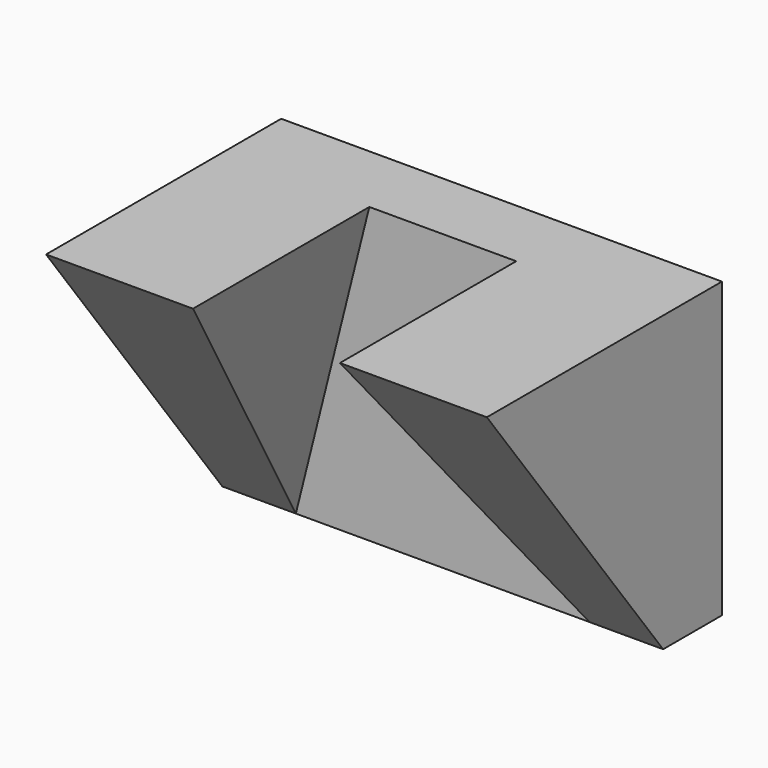
from build123d import *

# Parameters (mm, degrees)
F1_DEPTH  = 10
F2_DEPTH  = 40
F3_DEPTH  = 40
F5_DEPTH  = 25
F7_DEPTH  = 25
F9_DEPTH  = 25
F11_DEPTH = 25


with BuildPart() as f1:
    # F0 (on Front) → F1 (new body)
    with BuildSketch(Plane.XZ):
        Polygon((-1.249997, 46.195653), (-21.249997, 46.195653), (-31.249997, 6.195653), (-21.249997, 6.195653), (-11.249997, 6.195653), (-1.249997, 6.195653), (8.750003, 6.195653), align=None)
    extrude(amount=F1_DEPTH)

    # F0 (on Front) → F2 (join)
    with BuildSketch(Plane.XZ):
        Polygon((-21.249997, 46.195653), (-41.249997, 46.195653), (-41.249997, 6.195653), (-31.249997, 6.195653), align=None)
    extrude(amount=F2_DEPTH)

    # F0 (on Front) → F3 (join)
    with BuildSketch(Plane.XZ):
        Polygon((18.750003, 46.195653), (-1.249997, 46.195653), (8.750003, 6.195653), (18.750003, 6.195653), align=None)
    extrude(amount=F3_DEPTH)

    # F4 (on face) → F5 (cut)
    with BuildSketch(Plane(origin=(-41.249997, 0, 0), x_dir=(0, -1, 0), z_dir=(-1, 0, 0))):
        Polygon((40, 46.195653), (20, 6.195653), (30, 6.195653), (40, 6.195653), align=None)
    extrude(amount=-F5_DEPTH, mode=Mode.SUBTRACT)

    # F6 (on face) → F7 (cut)
    with BuildSketch(Plane.YZ.offset(18.750003)):
        Polygon((-30, 6.195653), (-20, 6.195653), (-40, 46.195653), (-40, 6.195653), align=None)
    extrude(amount=-F7_DEPTH, mode=Mode.SUBTRACT)

    # F8 (on face) → F9 (cut)
    with BuildSketch(Plane(origin=(-41.249997, 0, 0), x_dir=(0, -1, 0), z_dir=(-1, 0, 0))):
        Polygon((20, 6.195653), (40, 46.195653), (10, 6.195653), align=None)
    extrude(amount=-F9_DEPTH, mode=Mode.SUBTRACT)

    # F10 (on face) → F11 (cut)
    with BuildSketch(Plane.YZ.offset(18.750003)):
        Polygon((-10, 6.195653), (-40, 46.195653), (-20, 6.195653), align=None)
    extrude(amount=-F11_DEPTH, mode=Mode.SUBTRACT)


solid = f1.part
